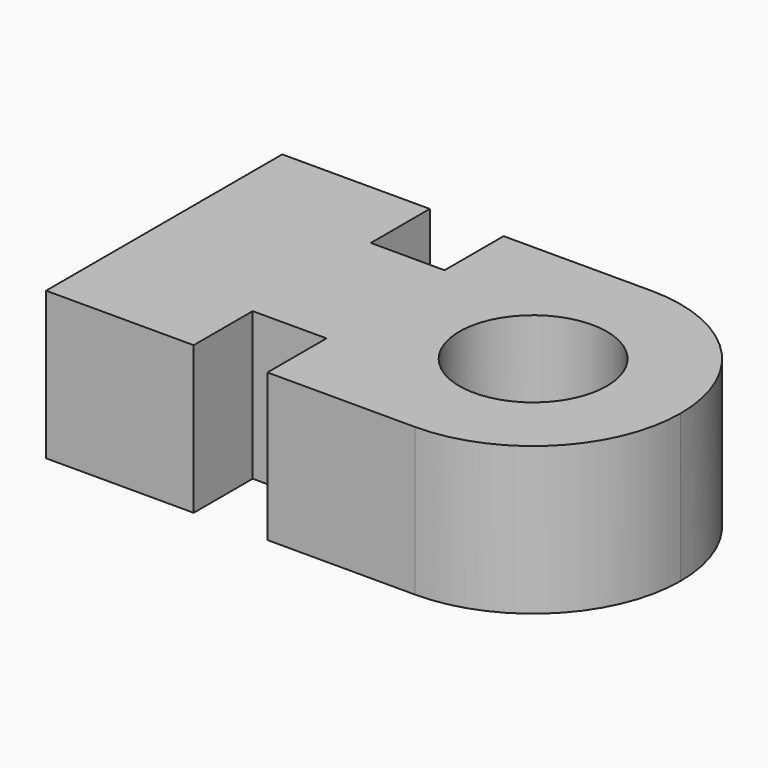
from build123d import *

# Parameters (mm, degrees)
F0_R     = 10
F1_DEPTH = 20


with BuildPart() as f1:
    # F0 (on Top) → F1 (new body)
    with BuildSketch(Plane.XY):
        with BuildLine():
            Line((0, 20), (0, 0))
            Line((0, 0), (0, -20))
            Line((0, -20), (20, -20))
            Line((20, -20), (20, -10))
            Line((20, -10), (30, -10))
            Line((30, -10), (30, -20))
            Line((30, -20), (50, -20))
            ThreePointArc((50, -20), (64.142136, -14.142136), (70, 0))
            ThreePointArc((70, 0), (64.142136, 14.142136), (50, 20))
            Line((50, 20), (30, 20))
            Line((30, 20), (30, 10))
            Line((30, 10), (20, 10))
            Line((20, 10), (20, 20))
            Line((20, 20), (0, 20))
        make_face()
        with Locations((50, 0)):
            Circle(F0_R, mode=Mode.SUBTRACT)
    extrude(amount=F1_DEPTH)


solid = f1.part
